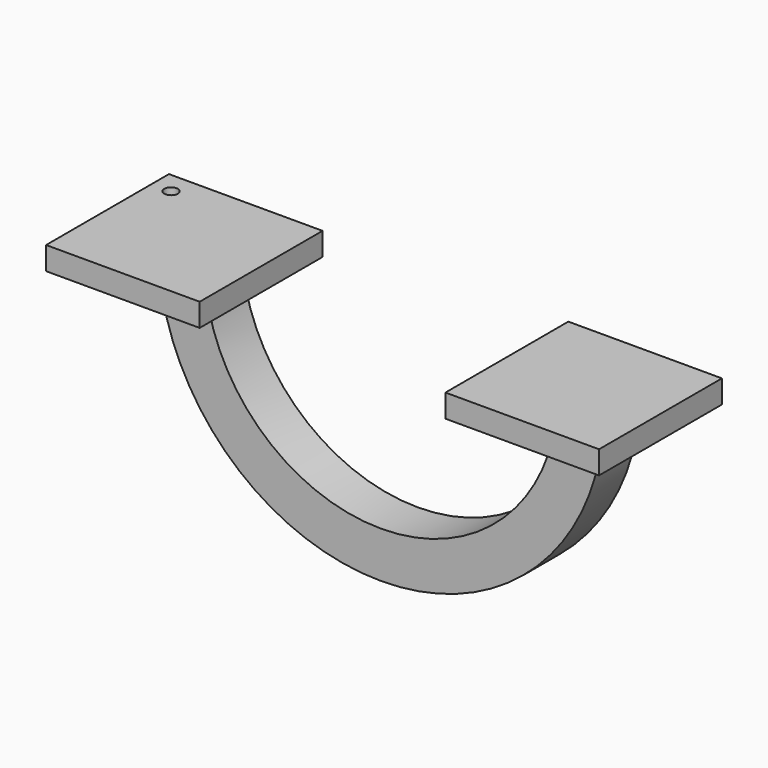
from build123d import *

# Parameters (mm, degrees)
F1_W     = 19.05
F1_H     = 19.05
F2_ANGLE = 180
F0_W     = 63.5
F0_H     = 63.5
F0_R     = 2.794
F3_DEPTH = 9.525
F4_DEPTH = 9.525


with BuildPart() as f2:
    # F1 (on Top) → F2 (revolve)
    with BuildSketch(Plane.XY):
        with Locations((-82.55, 0)):
            Rectangle(F1_W, F1_H)
    revolve(axis=Axis((0, 0, 0), (0, -1, 0)), revolution_arc=F2_ANGLE)

    # F0 (on Top) → F3 (join)
    with BuildSketch(Plane.XY):
        with Locations((-88.923662, 0)):
            Rectangle(F0_W, F0_H)
        with Locations((-112.640873, 22.796268)):
            Circle(F0_R, mode=Mode.SUBTRACT)
    extrude(amount=-F3_DEPTH)

    # F0 (on Top) + F1 (on Top) → F4 (join)
    with BuildSketch(Plane.XY):
        with Locations((76.176338, 0)):
            Rectangle(F0_W, F0_H)
    with BuildSketch(Plane.XY):
        with Locations((-82.55, 0)):
            Rectangle(F1_W, F1_H)
    extrude(amount=-F4_DEPTH)


solid = f2.part
